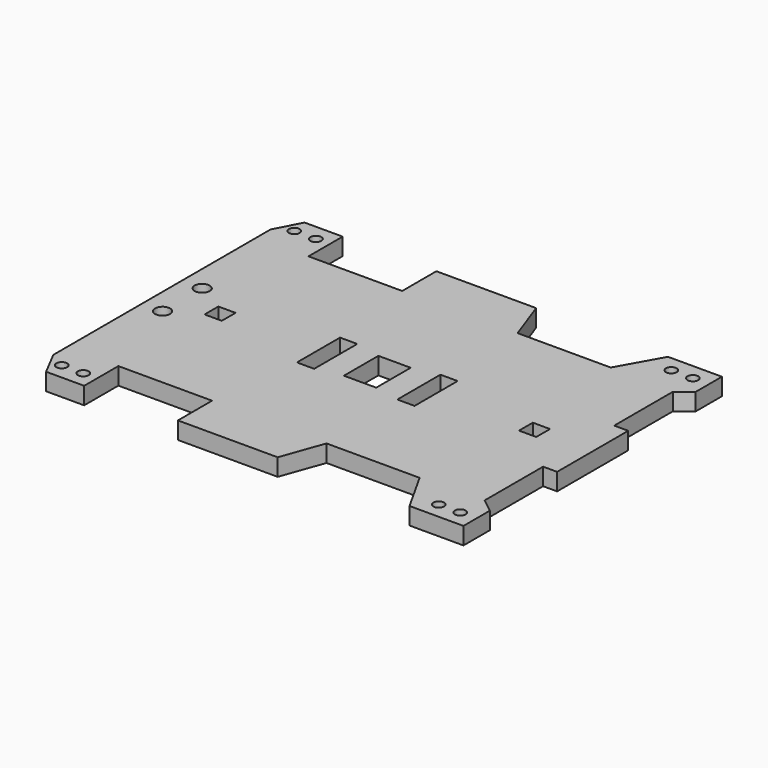
from build123d import *

# Parameters (mm, degrees)
F0_R     = 2.5
F0_R_2   = 3.5
F0_W     = 8
F0_H     = 8
F0_H_2   = 25
F0_W_2   = 15
F0_H_3   = 20
F1_DEPTH = 8


with BuildPart() as f1:
    # F0 (on Top) → F1 (new body)
    with BuildSketch(Plane.XY):
        Polygon((-76.082893, 75), (-93.770057, 75), (-100, 63.028075), (-100, -63.028075), (-93.770057, -75), (-76.082893, -75), (-76.082893, -55.167116), (-32.566845, -55.167116), (-32.566845, -75), (13.756684, -75), (20.775402, -55.447865), (64.010702, -55.447865), (74.959897, -75), (100, -75), (100, -59.659094), (93.489312, -54.605614), (93.489312, -20.635027), (100, -20.635027), (100, 20.635027), (93.489312, 20.635027), (93.489312, 54.605614), (100, 59.659094), (100, 75), (74.959897, 75), (64.010702, 55.447865), (20.775402, 55.447865), (13.756684, 75), (-32.566845, 75), (-32.566845, 55.167116), (-76.082893, 55.167116), align=None)
        with Locations((-92.5, -67.5)):
            Circle(F0_R, mode=Mode.SUBTRACT)
        with Locations((-82.5, -67.5)):
            Circle(F0_R, mode=Mode.SUBTRACT)
        with Locations((-90.5, -11.5)):
            Circle(F0_R_2, mode=Mode.SUBTRACT)
        with Locations((82.5, -67.5)):
            Circle(F0_R, mode=Mode.SUBTRACT)
        with Locations((92.5, -67.5)):
            Circle(F0_R, mode=Mode.SUBTRACT)
        with Locations((-90.5, 11.5)):
            Circle(F0_R_2, mode=Mode.SUBTRACT)
        with Locations((-73, 0)):
            Rectangle(F0_W, F0_H, mode=Mode.SUBTRACT)
        with Locations((-23.30214, 0)):
            Rectangle(F0_W, F0_H_2, mode=Mode.SUBTRACT)
        with Locations((-92.5, 67.5)):
            Circle(F0_R, mode=Mode.SUBTRACT)
        with Locations((-82.5, 67.5)):
            Circle(F0_R, mode=Mode.SUBTRACT)
        Rectangle(F0_W_2, F0_H_3, mode=Mode.SUBTRACT)
        with Locations((23.30214, 0)):
            Rectangle(F0_W, F0_H_2, mode=Mode.SUBTRACT)
        with Locations((73, 0)):
            Rectangle(F0_W, F0_H, mode=Mode.SUBTRACT)
        with Locations((82.5, 67.5)):
            Circle(F0_R, mode=Mode.SUBTRACT)
        with Locations((92.5, 67.5)):
            Circle(F0_R, mode=Mode.SUBTRACT)
    extrude(amount=F1_DEPTH)


solid = f1.part
